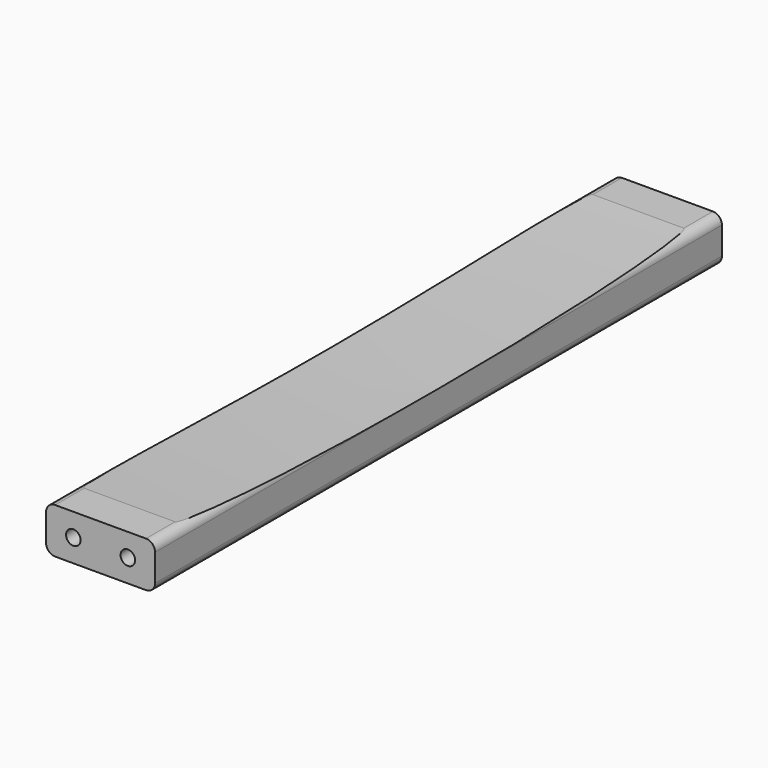
from build123d import *

# Parameters (mm, degrees)
PAD001_DEPTH      = 390
SKETCH003_R       = 4
HOLE_DEPTH        = 25
HOLE_TIPS_R       = 4
SKETCH004_R       = 4
HOLE001_DEPTH     = 25
HOLE001_TIPS_R    = 4
POCKET_DEPTH      = 64
POCKET_DEPTH_BACK = 5


with BuildPart() as part:
    # Sketch002 → Pad001 (new body)
    with BuildSketch(Plane.XZ):
        with BuildLine():
            ThreePointArc((25, -12.5), (28.535534, -11.035534), (30, -7.5))
            Line((30, 7.5), (30, -7.5))
            ThreePointArc((30, 7.5), (28.535534, 11.035534), (25, 12.5))
            Line((-25, 12.5), (25, 12.5))
            ThreePointArc((-25, 12.5), (-28.535534, 11.035534), (-30, 7.5))
            Line((-30, -7.5), (-30, 7.5))
            ThreePointArc((-30, -7.5), (-28.535534, -11.035534), (-25, -12.5))
            Line((25, -12.5), (-25, -12.5))
        make_face()
    extrude(amount=-PAD001_DEPTH)

    # Sketch003 (on Face9 of Pad001) → Hole (cut)
    with BuildSketch(Plane.XZ):
        with Locations((15, 0)):
            Circle(SKETCH003_R)
        with Locations((-15, 0)):
            Circle(SKETCH003_R)
    extrude(amount=-HOLE_DEPTH, mode=Mode.SUBTRACT)

    # Hole tips → Hole tip 1 section 0
    with BuildSketch(Plane.XZ.offset(-25), mode=Mode.PRIVATE) as hole_tip_1_s0:
        with Locations((15, 0)):
            Circle(HOLE_TIPS_R)
    loft([hole_tip_1_s0.sketch, Vertex(15, 27.403442, 0)], mode=Mode.SUBTRACT)

    # Hole tips → Hole tip 2 section 0
    with BuildSketch(Plane.XZ.offset(-25), mode=Mode.PRIVATE) as hole_tip_2_s0:
        with Locations((-15, 0)):
            Circle(HOLE_TIPS_R)
    loft([hole_tip_2_s0.sketch, Vertex(-15, 27.403442, 0)], mode=Mode.SUBTRACT)

    # Sketch004 (on Face5 of Hole) → Hole001 (cut)
    with BuildSketch(Plane(origin=(0, 390, 0), x_dir=(1, 0, 0), z_dir=(0, 1, 0))):
        with Locations((-15, 0)):
            Circle(SKETCH004_R)
        with Locations((15, 0)):
            Circle(SKETCH004_R)
    extrude(amount=-HOLE001_DEPTH, mode=Mode.SUBTRACT)

    # Hole001 tips → Hole001 tip 1 section 0
    with BuildSketch(Plane(origin=(0, 365, 0), x_dir=(1, 0, 0), z_dir=(0, 1, 0)), mode=Mode.PRIVATE) as hole001_tip_1_s0:
        with Locations((-15, 0)):
            Circle(HOLE001_TIPS_R)
    loft([hole001_tip_1_s0.sketch, Vertex(-15, 362.596558, 0)], mode=Mode.SUBTRACT)

    # Hole001 tips → Hole001 tip 2 section 0
    with BuildSketch(Plane(origin=(0, 365, 0), x_dir=(1, 0, 0), z_dir=(0, 1, 0)), mode=Mode.PRIVATE) as hole001_tip_2_s0:
        with Locations((15, 0)):
            Circle(HOLE001_TIPS_R)
    loft([hole001_tip_2_s0.sketch, Vertex(15, 362.596558, 0)], mode=Mode.SUBTRACT)

    # Sketch005 (on Face3 of Hole001) → Pocket (cut, two sides)
    with BuildSketch(Plane(origin=(30, 0, 0), x_dir=(0, 0, 1), z_dir=(1, 0, 0))) as pocket_sk:
        with BuildLine():
            ThreePointArc((12.5, -20), (7.5, -195), (12.5, -370))
            Line((12.5, -20), (12.5, -370))
        make_face()
    extrude(amount=-POCKET_DEPTH, mode=Mode.SUBTRACT)
    extrude(pocket_sk.sketch, amount=POCKET_DEPTH_BACK, mode=Mode.SUBTRACT)


solid = part.part
